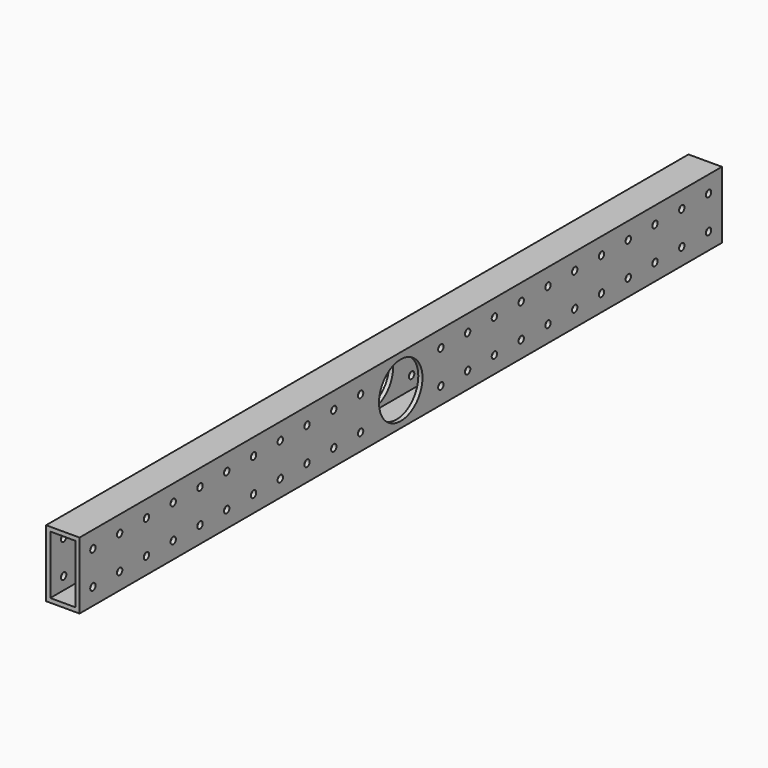
from build123d import *

# Parameters (mm, degrees)
F0_W     = 25.4
F0_H     = 50.8
F0_W_2   = 19.05
F0_H_2   = 44.45
F1_DEPTH = 609.6
F2_R     = 2.5527
F3_DEPTH = 25.4
F4_R     = 20.6375
F5_DEPTH = 25.4


with BuildPart() as f1:
    # F0 (on Front) → F1 (new body)
    with BuildSketch(Plane.XZ):
        Rectangle(F0_W, F0_H)
        Rectangle(F0_W_2, F0_H_2, mode=Mode.SUBTRACT)
    extrude(amount=F1_DEPTH)

    # F2 (on face) → F3 (cut)
    with BuildSketch(Plane.YZ.offset(12.7)):
        with Locations((-596.9, 12.7)):
            Circle(F2_R)
        with Locations((-596.9, -12.7)):
            Circle(F2_R)
        with Locations((-571.5, 12.7)):
            Circle(F2_R)
        with Locations((-571.5, -12.7)):
            Circle(F2_R)
        with Locations((-546.1, 12.7)):
            Circle(F2_R)
        with Locations((-546.1, -12.7)):
            Circle(F2_R)
        with Locations((-520.7, 12.7)):
            Circle(F2_R)
        with Locations((-520.7, -12.7)):
            Circle(F2_R)
        with Locations((-495.3, 12.7)):
            Circle(F2_R)
        with Locations((-495.3, -12.7)):
            Circle(F2_R)
        with Locations((-469.9, 12.7)):
            Circle(F2_R)
        with Locations((-469.9, -12.7)):
            Circle(F2_R)
        with Locations((-444.5, 12.7)):
            Circle(F2_R)
        with Locations((-444.5, -12.7)):
            Circle(F2_R)
        with Locations((-419.1, 12.7)):
            Circle(F2_R)
        with Locations((-419.1, -12.7)):
            Circle(F2_R)
        with Locations((-393.7, 12.7)):
            Circle(F2_R)
        with Locations((-393.7, -12.7)):
            Circle(F2_R)
        with Locations((-368.3, 12.7)):
            Circle(F2_R)
        with Locations((-368.3, -12.7)):
            Circle(F2_R)
        with Locations((-342.9, 12.7)):
            Circle(F2_R)
        with Locations((-342.9, -12.7)):
            Circle(F2_R)
        with Locations((-317.5, 12.7)):
            Circle(F2_R)
        with Locations((-317.5, -12.7)):
            Circle(F2_R)
        with Locations((-292.1, 12.7)):
            Circle(F2_R)
        with Locations((-292.1, -12.7)):
            Circle(F2_R)
        with Locations((-266.7, 12.7)):
            Circle(F2_R)
        with Locations((-266.7, -12.7)):
            Circle(F2_R)
        with Locations((-241.3, 12.7)):
            Circle(F2_R)
        with Locations((-241.3, -12.7)):
            Circle(F2_R)
        with Locations((-215.9, 12.7)):
            Circle(F2_R)
        with Locations((-215.9, -12.7)):
            Circle(F2_R)
        with Locations((-190.5, 12.7)):
            Circle(F2_R)
        with Locations((-190.5, -12.7)):
            Circle(F2_R)
        with Locations((-165.1, 12.7)):
            Circle(F2_R)
        with Locations((-165.1, -12.7)):
            Circle(F2_R)
        with Locations((-139.7, 12.7)):
            Circle(F2_R)
        with Locations((-139.7, -12.7)):
            Circle(F2_R)
        with Locations((-114.3, 12.7)):
            Circle(F2_R)
        with Locations((-114.3, -12.7)):
            Circle(F2_R)
        with Locations((-88.9, 12.7)):
            Circle(F2_R)
        with Locations((-88.9, -12.7)):
            Circle(F2_R)
        with Locations((-63.5, 12.7)):
            Circle(F2_R)
        with Locations((-63.5, -12.7)):
            Circle(F2_R)
        with Locations((-38.1, 12.7)):
            Circle(F2_R)
        with Locations((-38.1, -12.7)):
            Circle(F2_R)
        with Locations((-12.7, 12.7)):
            Circle(F2_R)
        with Locations((-12.7, -12.7)):
            Circle(F2_R)
    extrude(amount=-F3_DEPTH, mode=Mode.SUBTRACT)

    # F4 (on face) → F5 (cut)
    with BuildSketch(Plane.YZ.offset(12.7)):
        with Locations((-304.8, 0)):
            Circle(F4_R)
    extrude(amount=-F5_DEPTH, mode=Mode.SUBTRACT)


solid = f1.part
